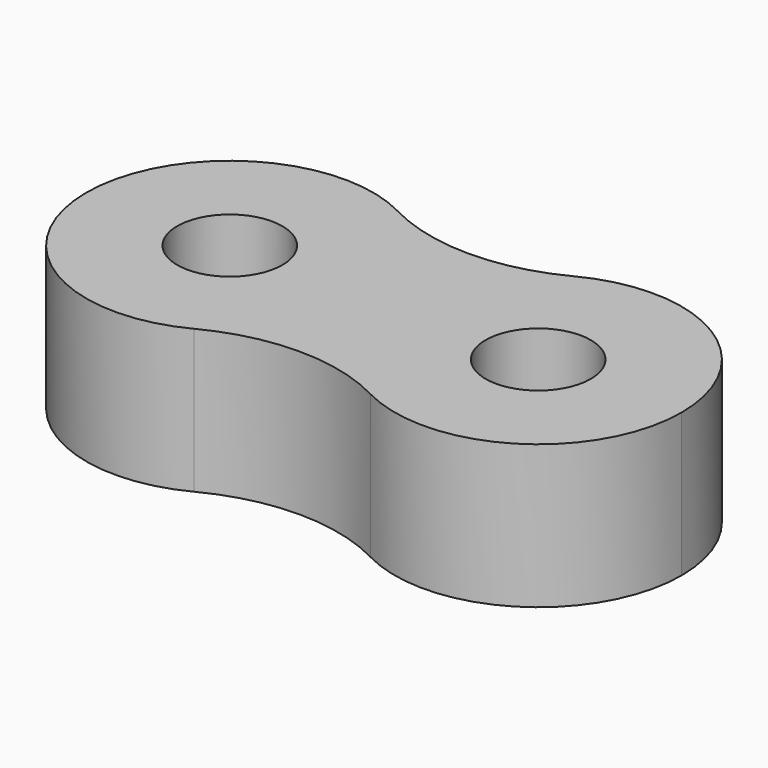
from build123d import *

# Parameters (mm, degrees)
F0_R     = 1.1
F1_DEPTH = 0.9
F2_DEPTH = 3


with BuildPart() as f1:
    # F0 (on Top) → F1 (new body)
    with BuildSketch(Plane.XY):
        with BuildLine():
            ThreePointArc((9.45, 0), (8.007814, 2.563828), (5.067857, 2.662646))
            ThreePointArc((5.067857, 2.662646), (3.45, 0), (5.067857, -2.662646))
            ThreePointArc((5.067857, -2.662646), (8.007814, -2.563828), (9.45, 0))
        make_face()
        with Locations((6.45, 0)):
            Circle(F0_R, mode=Mode.SUBTRACT)
        with BuildLine():
            ThreePointArc((1.382143, -2.662646), (2.563828, -1.557814), (3, 0))
            ThreePointArc((3, 0), (2.563828, 1.557814), (1.382143, 2.662646))
            ThreePointArc((1.382143, 2.662646), (-3, 0), (1.382143, -2.662646))
        make_face()
        Circle(F0_R, mode=Mode.SUBTRACT)
        with BuildLine():
            ThreePointArc((1.382143, 2.662646), (2.563828, 1.557814), (3, 0))
            ThreePointArc((3, 0), (2.563828, -1.557814), (1.382143, -2.662646))
            ThreePointArc((1.382143, -2.662646), (3.225, -2.21284), (5.067857, -2.662646))
            ThreePointArc((5.067857, -2.662646), (3.45, 0), (5.067857, 2.662646))
            ThreePointArc((5.067857, 2.662646), (3.225, 2.21284), (1.382143, 2.662646))
        make_face()
        with BuildLine():
            ThreePointArc((1.382143, 2.662646), (2.563828, 1.557814), (3, 0))
            ThreePointArc((3, 0), (2.563828, -1.557814), (1.382143, -2.662646))
            ThreePointArc((1.382143, -2.662646), (3.225, -2.21284), (5.067857, -2.662646))
            ThreePointArc((5.067857, -2.662646), (3.45, 0), (5.067857, 2.662646))
            ThreePointArc((5.067857, 2.662646), (3.225, 2.21284), (1.382143, 2.662646))
        make_face()
    extrude(amount=F1_DEPTH)


with BuildPart() as f2:
    # F0 (on Top) → F2 (new body)
    with BuildSketch(Plane.XY):
        with BuildLine():
            ThreePointArc((1.382143, -2.662646), (2.563828, -1.557814), (3, 0))
            ThreePointArc((3, 0), (2.563828, 1.557814), (1.382143, 2.662646))
            ThreePointArc((1.382143, 2.662646), (-3, 0), (1.382143, -2.662646))
        make_face()
        Circle(F0_R, mode=Mode.SUBTRACT)
        with BuildLine():
            ThreePointArc((1.382143, 2.662646), (2.563828, 1.557814), (3, 0))
            ThreePointArc((3, 0), (2.563828, -1.557814), (1.382143, -2.662646))
            ThreePointArc((1.382143, -2.662646), (3.225, -2.21284), (5.067857, -2.662646))
            ThreePointArc((5.067857, -2.662646), (3.45, 0), (5.067857, 2.662646))
            ThreePointArc((5.067857, 2.662646), (3.225, 2.21284), (1.382143, 2.662646))
        make_face()
        with BuildLine():
            ThreePointArc((9.45, 0), (8.007814, 2.563828), (5.067857, 2.662646))
            ThreePointArc((5.067857, 2.662646), (3.45, 0), (5.067857, -2.662646))
            ThreePointArc((5.067857, -2.662646), (8.007814, -2.563828), (9.45, 0))
        make_face()
        with Locations((6.45, 0)):
            Circle(F0_R, mode=Mode.SUBTRACT)
    extrude(amount=F2_DEPTH)


solid = Compound([f1.part, f2.part])
